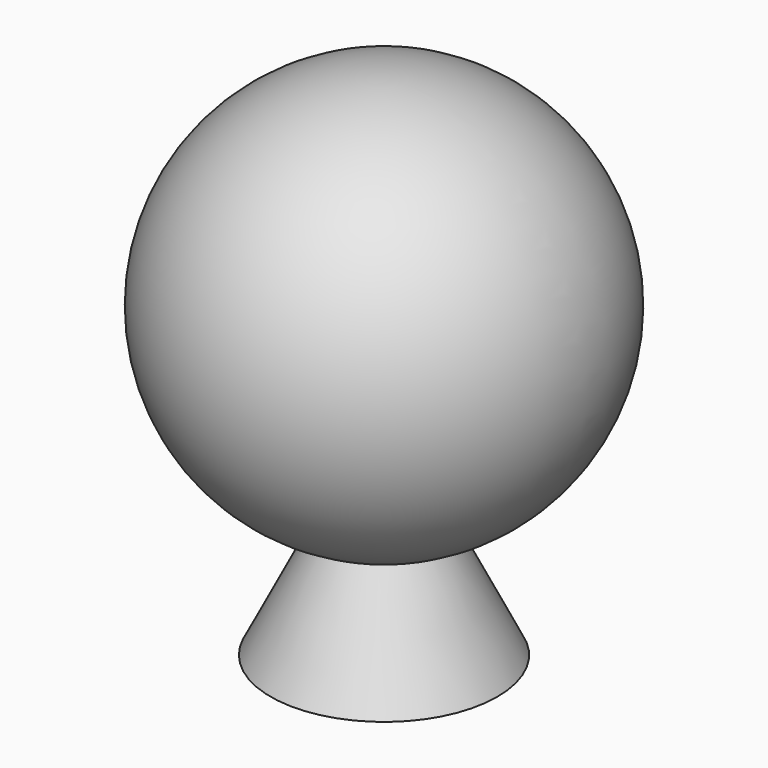
from build123d import *


with BuildPart() as f1:
    # F0 (on Front) → F1 (revolve)
    with BuildSketch(Plane.XZ):
        with BuildLine():
            Line((0, 35.723668), (0, 0))
            ThreePointArc((0, 0), (17.861834, 17.861834), (0, 35.723668))
        make_face()
    revolve(axis=Axis((0, 0, 17.861834), (0, 0, -1)))

    # F2 (on Front) → F3 (revolve)
    with BuildSketch(Plane.XZ):
        Polygon((10, -9.28591), (5, 0.71409), (0, 0.71409), (0, -9.28591), align=None)
    revolve(axis=Axis((0, 0, -4.28591), (0, 0, -1)))


solid = f1.part
